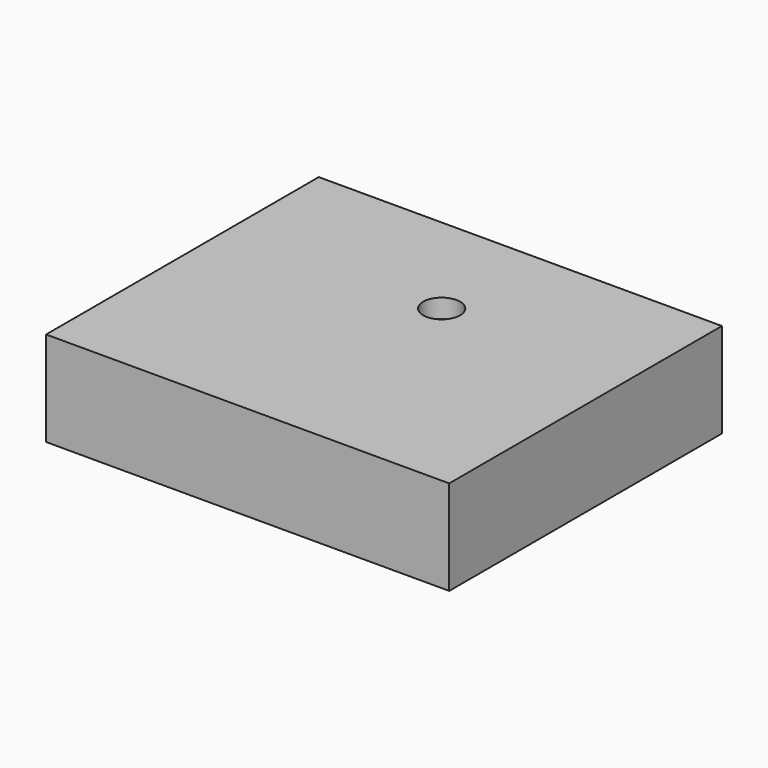
from build123d import *

# Parameters (mm, degrees)
F0_W           = 106.4479349901
F0_H           = 90
F1_DEPTH       = 25
F3_D           = 5.5
F3_CBORE_D     = 9.75
F3_CBORE_DEPTH = 5


with BuildPart() as f1:
    # F0 (on Top) → F1 (new body)
    with BuildSketch(Plane.XY):
        with Locations((53.223967495, 45)):
            Rectangle(F0_W, F0_H)
    extrude(amount=F1_DEPTH)

    # F3 (through all)
    with Locations(Plane.XY.offset(25)):
        with Locations((56.4479349901, 60)):
            CounterBoreHole(F3_D / 2, F3_CBORE_D / 2, F3_CBORE_DEPTH)


solid = f1.part
